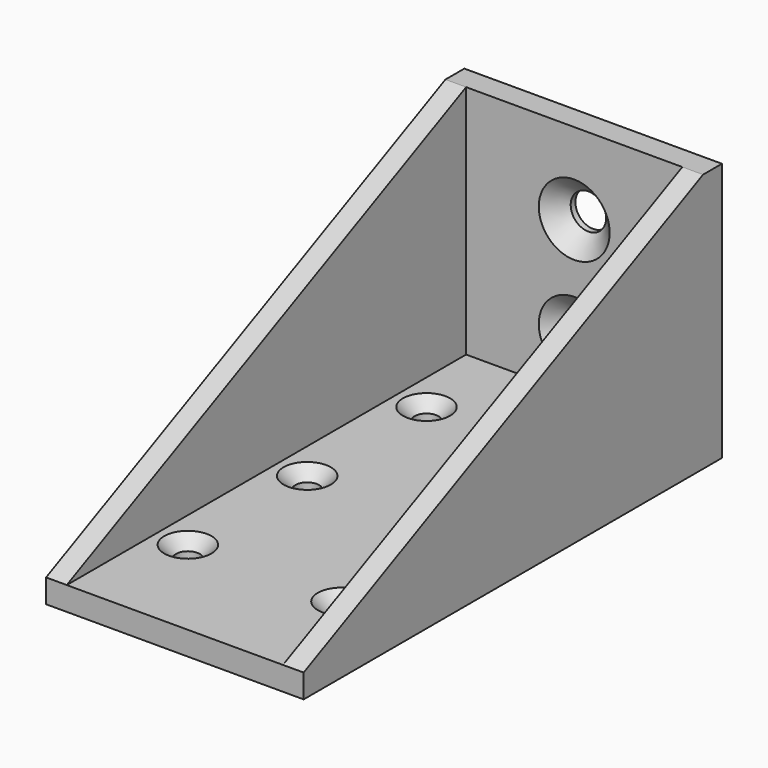
from build123d import *

# Parameters (mm, degrees)
SKETCH_W        = 43.6
SKETCH_H        = 88.5
SKETCH_R        = 2
PAD_DEPTH       = 4
CHAMFER_SIZE    = 2
SKETCH001_W     = 43.6
SKETCH001_H     = 4
PAD001_DEPTH    = 39.85
SKETCH002_R     = 3
HOLE_DEPTH      = 25
HOLE_TIPS_R     = 3
CHAMFER001_SIZE = 3
SKETCH003_W     = 3.5
SKETCH003_H     = 88.5
PAD002_DEPTH    = 39.85
POCKET_DEPTH    = 43.601


with BuildPart() as part:
    # Sketch → Pad (new body)
    with BuildSketch(Plane.XY):
        Rectangle(SKETCH_W, SKETCH_H)
        with Locations((-13, 0)):
            Circle(SKETCH_R, mode=Mode.SUBTRACT)
        with Locations((13, 0)):
            Circle(SKETCH_R, mode=Mode.SUBTRACT)
        with Locations((-13, 25.25)):
            Circle(SKETCH_R, mode=Mode.SUBTRACT)
        with Locations((13, 25.25)):
            Circle(SKETCH_R, mode=Mode.SUBTRACT)
        with Locations((-13, -25.25)):
            Circle(SKETCH_R, mode=Mode.SUBTRACT)
        with Locations((13, -25.25)):
            Circle(SKETCH_R, mode=Mode.SUBTRACT)
    extrude(amount=PAD_DEPTH)

    # Chamfer
    chamfer_edges = [part.edges().sort_by_distance(p)[0] for p in [
        (-15, -25.25, 4),
        (-15, 0, 4),
        (-15, 25.25, 4),
        (11, 25.25, 4),
        (11, 0, 4),
        (11, -25.25, 4),
    ]]
    chamfer(chamfer_edges, length=CHAMFER_SIZE)

    # Sketch001 (on Face4 of Chamfer) → Pad001 (join)
    with BuildSketch(Plane.XY.offset(4)):
        with Locations((0, 42.25)):
            Rectangle(SKETCH001_W, SKETCH001_H)
    extrude(amount=PAD001_DEPTH)

    # Sketch002 (on Face20 of Pad001) → Hole (cut)
    with BuildSketch(Plane(origin=(0, 44.25, 0), x_dir=(-1, 0, 0), z_dir=(0, 1, 0))):
        with Locations((0, 12.55)):
            Circle(SKETCH002_R)
        with Locations((0, 30.05)):
            Circle(SKETCH002_R)
    extrude(amount=-HOLE_DEPTH, mode=Mode.SUBTRACT)

    # Hole tips → Hole tip 1 section 0
    with BuildSketch(Plane(origin=(0, 19.25, 0), x_dir=(-1, 0, 0), z_dir=(0, 1, 0)), mode=Mode.PRIVATE) as hole_tip_1_s0:
        with Locations((0, 12.55)):
            Circle(HOLE_TIPS_R)
    loft([hole_tip_1_s0.sketch, Vertex(0, 17.447418, 12.55)], mode=Mode.SUBTRACT)

    # Hole tips → Hole tip 2 section 0
    with BuildSketch(Plane(origin=(0, 19.25, 0), x_dir=(-1, 0, 0), z_dir=(0, 1, 0)), mode=Mode.PRIVATE) as hole_tip_2_s0:
        with Locations((0, 30.05)):
            Circle(HOLE_TIPS_R)
    loft([hole_tip_2_s0.sketch, Vertex(0, 17.447418, 30.05)], mode=Mode.SUBTRACT)

    # Chamfer001
    chamfer001_edges = [part.edges().sort_by_distance(p)[0] for p in [
        (-3, 40.25, 30.05),
        (-3, 40.25, 12.55),
    ]]
    chamfer(chamfer001_edges, length=CHAMFER001_SIZE)

    # Sketch003 (on Face4 of Chamfer001) → Pad002 (join)
    with BuildSketch(Plane.XY.offset(4)):
        with Locations((-20.05, 0)):
            Rectangle(SKETCH003_W, SKETCH003_H)
        with Locations((20.05, 0)):
            Rectangle(SKETCH003_W, SKETCH003_H)
    extrude(amount=PAD002_DEPTH)

    # Sketch004 (on Face12 of Pad002) → Pocket (cut, through all)
    with BuildSketch(Plane(origin=(-21.8, 0, 0), x_dir=(0, -1, 0), z_dir=(-1, 0, 0))):
        Polygon((-40.254917, 43.850445), (44.398479, 3.93337), (49.801365, 49.127281), (-36.76268, 49.127281), align=None)
    extrude(amount=-POCKET_DEPTH, mode=Mode.SUBTRACT)


solid = part.part
